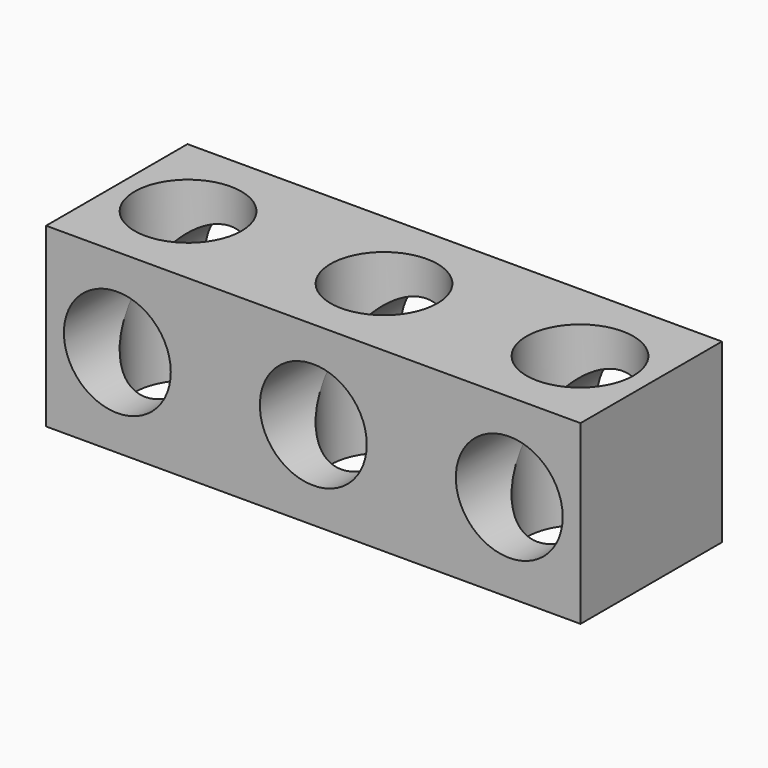
from build123d import *

# Parameters (mm, degrees)
F0_W     = 24
F0_H     = 7.9375
F1_DEPTH = 3.96875
F2_R     = 2.4
F3_DEPTH = 7.9385
F4_R     = 2.4
F5_DEPTH = 7.9385


with BuildPart() as f1:
    # F0 (on Top) → F1 (new body, symmetric)
    with BuildSketch(Plane.XY):
        Rectangle(F0_W, F0_H)
    extrude(amount=F1_DEPTH, both=True)

    # F2 (on face) → F3 (cut, through all)
    with BuildSketch(Plane.XZ.offset(3.96875)):
        Circle(F2_R)
        with Locations((8.8, 0)):
            Circle(F2_R)
        with Locations((-8.8, 0)):
            Circle(F2_R)
    extrude(amount=-F3_DEPTH, mode=Mode.SUBTRACT)

    # F4 (on face) → F5 (cut, through all)
    with BuildSketch(Plane.XY.offset(3.96875)):
        Circle(F4_R)
        with Locations((8.8, 0)):
            Circle(F4_R)
        with Locations((-8.8, 0)):
            Circle(F4_R)
    extrude(amount=-F5_DEPTH, mode=Mode.SUBTRACT)


solid = f1.part
